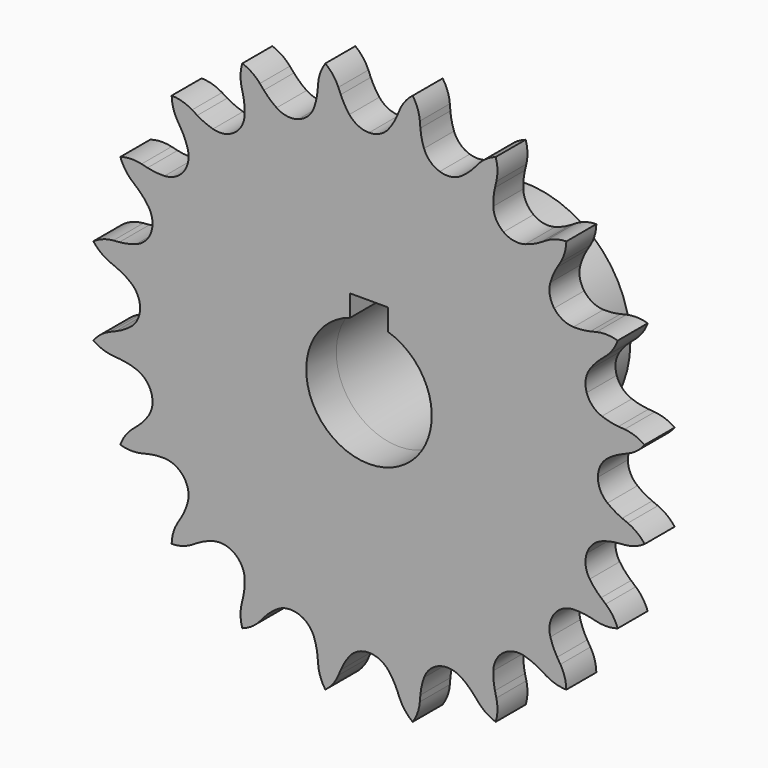
from build123d import *

# Parameters (mm, degrees)
F0_R     = 17
F0_R_2   = 10.05
F1_DEPTH = 25
F2_R     = 10.0377929829
F3_DEPTH = 6
F4_W     = 6
F4_H     = 6
F5_DEPTH = 38
F6_R     = 1.5
F7_DEPTH = 48.8


with BuildPart() as f1:
    # F0 (on Front) → F1 (new body)
    with BuildSketch(Plane.XZ):
        Circle(F0_R)
        Circle(F0_R_2, mode=Mode.SUBTRACT)
    extrude(amount=-F1_DEPTH)

    # F2 (on Front) → F3 (join)
    with BuildSketch(Plane.XZ):
        with BuildLine():
            ThreePointArc((-3.1373072133, 38.1409669683), (-3.905991045, 39.2720508786), (-4.5183293295, 40.4948621767))
            Line((-4.5183293295, 40.4948621767), (-4.8992933737, 41.4011398251))
            ThreePointArc((-4.8992933737, 41.4011398251), (-5.7641563546, 42.881091404), (-6.982649138, 44.0867115716))
            ThreePointArc((-6.982649138, 44.0867115716), (-7.7689475192, 42.5635636774), (-8.1341509042, 40.8887887256))
            Line((-8.1341509042, 40.8887887256), (-8.2164140459, 39.9091430987))
            ThreePointArc((-8.2164140459, 39.9091430987), (-8.4209128895, 38.5569575092), (-8.8024505062, 37.2436964185))
            ThreePointArc((-8.8024505062, 37.2436964185), (-9.7780053671, 35.741473668), (-11.3133593777, 34.8189399068))
            ThreePointArc((-11.3133593777, 34.8189399068), (-13.0977386042, 34.662826953), (-14.769963444, 35.3047339275))
            ThreePointArc((-14.769963444, 35.3047339275), (-15.8505493614, 36.1429222836), (-16.8107871491, 37.1166620007))
            Line((-16.8107871491, 37.1166620007), (-17.4531606807, 37.8608588998))
            ThreePointArc((-17.4531606807, 37.8608588998), (-18.7330244432, 39.0011191338), (-20.2644370654, 39.7711970728))
            ThreePointArc((-20.2644370654, 39.7711970728), (-20.5415726804, 38.0796177803), (-20.3713678176, 36.3739580967))
            Line((-20.3713678176, 36.3739580967), (-20.1468775673, 35.4168390307))
            ThreePointArc((-20.1468775673, 35.4168390307), (-19.9235191984, 34.0676404966), (-19.88056304, 32.7007533711))
            ThreePointArc((-19.88056304, 32.7007533711), (-20.3441584881, 30.9705916044), (-21.5192883146, 29.6187593777))
            ThreePointArc((-21.5192883146, 29.6187593777), (-23.1680922498, 28.9188836303), (-24.9568327443, 29.0126275473))
            ThreePointArc((-24.9568327443, 29.0126275473), (-26.2435454691, 29.4758726329), (-27.4576879949, 30.105224341))
            Line((-27.4576879949, 30.105224341), (-28.298591017, 30.6144933133))
            ThreePointArc((-28.298591017, 30.6144933133), (-29.8681735786, 31.303445586), (-31.5626007023, 31.5626007023))
            ThreePointArc((-31.5626007023, 31.5626007023), (-31.303445586, 29.8681735786), (-30.6144933133, 28.298591017))
            Line((-30.6144933133, 28.298591017), (-30.105224341, 27.4576879949))
            ThreePointArc((-30.105224341, 27.4576879949), (-29.4758726329, 26.2435454691), (-29.0126275473, 24.9568327443))
            ThreePointArc((-29.0126275473, 24.9568327443), (-28.9188836303, 23.1680922498), (-29.6187593777, 21.5192883146))
            ThreePointArc((-29.6187593777, 21.5192883146), (-30.9705916044, 20.3441584881), (-32.7007533711, 19.88056304))
            ThreePointArc((-32.7007533711, 19.88056304), (-34.0676404966, 19.9235191984), (-35.4168390307, 20.1468775673))
            Line((-35.4168390307, 20.1468775673), (-36.3739580967, 20.3713678176))
            ThreePointArc((-36.3739580967, 20.3713678176), (-38.0796177803, 20.5415726804), (-39.7711970728, 20.2644370654))
            ThreePointArc((-39.7711970728, 20.2644370654), (-39.0011191338, 18.7330244432), (-37.8608588998, 17.4531606807))
            Line((-37.8608588998, 17.4531606807), (-37.1166620007, 16.8107871491))
            ThreePointArc((-37.1166620007, 16.8107871491), (-36.1429222836, 15.8505493614), (-35.3047339275, 14.769963444))
            ThreePointArc((-35.3047339275, 14.769963444), (-34.662826953, 13.0977386042), (-34.8189399068, 11.3133593777))
            ThreePointArc((-34.8189399068, 11.3133593777), (-35.741473668, 9.7780053671), (-37.2436964185, 8.8024505062))
            ThreePointArc((-37.2436964185, 8.8024505062), (-38.5569575092, 8.4209128895), (-39.9091430987, 8.2164140459))
            Line((-39.9091430987, 8.2164140459), (-40.8887887256, 8.1341509042))
            ThreePointArc((-40.8887887256, 8.1341509042), (-42.5635636774, 7.7689475192), (-44.0867115716, 6.982649138))
            ThreePointArc((-44.0867115716, 6.982649138), (-42.881091404, 5.7641563546), (-41.4011398251, 4.8992933737))
            Line((-41.4011398251, 4.8992933737), (-40.4948621767, 4.5183293295))
            ThreePointArc((-40.4948621767, 4.5183293295), (-39.2720508786, 3.905991045), (-38.1409669683, 3.1373072133))
            ThreePointArc((-38.1409669683, 3.1373072133), (-37.0137312635, 1.7452870467), (-36.6108, 0))
            ThreePointArc((-36.6108, 0), (-37.0137312635, -1.7452870467), (-38.1409669683, -3.1373072133))
            ThreePointArc((-38.1409669683, -3.1373072133), (-39.2720508786, -3.905991045), (-40.4948621767, -4.5183293295))
            Line((-40.4948621767, -4.5183293295), (-41.4011398251, -4.8992933737))
            ThreePointArc((-41.4011398251, -4.8992933737), (-42.881091404, -5.7641563546), (-44.0867115716, -6.982649138))
            ThreePointArc((-44.0867115716, -6.982649138), (-42.5635636774, -7.7689475192), (-40.8887887256, -8.1341509042))
            Line((-40.8887887256, -8.1341509042), (-39.9091430987, -8.2164140459))
            ThreePointArc((-39.9091430987, -8.2164140459), (-38.5569575092, -8.4209128895), (-37.2436964185, -8.8024505062))
            ThreePointArc((-37.2436964185, -8.8024505062), (-35.741473668, -9.7780053671), (-34.8189399068, -11.3133593777))
            ThreePointArc((-34.8189399068, -11.3133593777), (-34.662826953, -13.0977386042), (-35.3047339275, -14.769963444))
            ThreePointArc((-35.3047339275, -14.769963444), (-36.1429222836, -15.8505493614), (-37.1166620007, -16.8107871491))
            Line((-37.1166620007, -16.8107871491), (-37.8608588998, -17.4531606807))
            ThreePointArc((-37.8608588998, -17.4531606807), (-39.0011191338, -18.7330244432), (-39.7711970728, -20.2644370654))
            ThreePointArc((-39.7711970728, -20.2644370654), (-38.0796177803, -20.5415726804), (-36.3739580967, -20.3713678176))
            Line((-36.3739580967, -20.3713678176), (-35.4168390307, -20.1468775673))
            ThreePointArc((-35.4168390307, -20.1468775673), (-34.0676404966, -19.9235191984), (-32.7007533711, -19.88056304))
            ThreePointArc((-32.7007533711, -19.88056304), (-30.9705916044, -20.3441584881), (-29.6187593777, -21.5192883146))
            ThreePointArc((-29.6187593777, -21.5192883146), (-28.9188836303, -23.1680922498), (-29.0126275473, -24.9568327443))
            ThreePointArc((-29.0126275473, -24.9568327443), (-29.4758726329, -26.2435454691), (-30.105224341, -27.4576879949))
            Line((-30.105224341, -27.4576879949), (-30.6144933133, -28.298591017))
            ThreePointArc((-30.6144933133, -28.298591017), (-31.303445586, -29.8681735786), (-31.5626007023, -31.5626007023))
            ThreePointArc((-31.5626007023, -31.5626007023), (-29.8681735786, -31.303445586), (-28.298591017, -30.6144933133))
            Line((-28.298591017, -30.6144933133), (-27.4576879949, -30.105224341))
            ThreePointArc((-27.4576879949, -30.105224341), (-26.2435454691, -29.4758726329), (-24.9568327443, -29.0126275473))
            ThreePointArc((-24.9568327443, -29.0126275473), (-23.1680922498, -28.9188836303), (-21.5192883146, -29.6187593777))
            ThreePointArc((-21.5192883146, -29.6187593777), (-20.3441584881, -30.9705916044), (-19.88056304, -32.7007533711))
            ThreePointArc((-19.88056304, -32.7007533711), (-19.9235191984, -34.0676404966), (-20.1468775673, -35.4168390307))
            Line((-20.1468775673, -35.4168390307), (-20.3713678176, -36.3739580967))
            ThreePointArc((-20.3713678176, -36.3739580967), (-20.5415726804, -38.0796177803), (-20.2644370654, -39.7711970728))
            ThreePointArc((-20.2644370654, -39.7711970728), (-18.7330244432, -39.0011191338), (-17.4531606807, -37.8608588998))
            Line((-17.4531606807, -37.8608588998), (-16.8107871491, -37.1166620007))
            ThreePointArc((-16.8107871491, -37.1166620007), (-15.8505493614, -36.1429222836), (-14.769963444, -35.3047339275))
            ThreePointArc((-14.769963444, -35.3047339275), (-13.0977386042, -34.662826953), (-11.3133593777, -34.8189399068))
            ThreePointArc((-11.3133593777, -34.8189399068), (-9.7780053671, -35.741473668), (-8.8024505062, -37.2436964185))
            ThreePointArc((-8.8024505062, -37.2436964185), (-8.4209128895, -38.5569575092), (-8.2164140459, -39.9091430987))
            Line((-8.2164140459, -39.9091430987), (-8.1341509042, -40.8887887256))
            ThreePointArc((-8.1341509042, -40.8887887256), (-7.7689475192, -42.5635636774), (-6.982649138, -44.0867115716))
            ThreePointArc((-6.982649138, -44.0867115716), (-5.7641563546, -42.881091404), (-4.8992933737, -41.4011398251))
            Line((-4.8992933737, -41.4011398251), (-4.5183293295, -40.4948621767))
            ThreePointArc((-4.5183293295, -40.4948621767), (-3.905991045, -39.2720508786), (-3.1373072133, -38.1409669683))
            ThreePointArc((-3.1373072133, -38.1409669683), (-1.7452870467, -37.0137312635), (0, -36.6108))
            ThreePointArc((0, -36.6108), (1.7452870467, -37.0137312635), (3.1373072133, -38.1409669683))
            ThreePointArc((3.1373072133, -38.1409669683), (3.905991045, -39.2720508786), (4.5183293295, -40.4948621767))
            Line((4.5183293295, -40.4948621767), (4.8992933737, -41.4011398251))
            ThreePointArc((4.8992933737, -41.4011398251), (5.7641563546, -42.881091404), (6.982649138, -44.0867115716))
            ThreePointArc((6.982649138, -44.0867115716), (7.7689475192, -42.5635636774), (8.1341509042, -40.8887887256))
            Line((8.1341509042, -40.8887887256), (8.2164140459, -39.9091430987))
            ThreePointArc((8.2164140459, -39.9091430987), (8.4209128895, -38.5569575092), (8.8024505062, -37.2436964185))
            ThreePointArc((8.8024505062, -37.2436964185), (9.7780053671, -35.741473668), (11.3133593777, -34.8189399068))
            ThreePointArc((11.3133593777, -34.8189399068), (13.0977386042, -34.662826953), (14.769963444, -35.3047339275))
            ThreePointArc((14.769963444, -35.3047339275), (15.8505493614, -36.1429222836), (16.8107871491, -37.1166620007))
            Line((16.8107871491, -37.1166620007), (17.4531606807, -37.8608588998))
            ThreePointArc((17.4531606807, -37.8608588998), (18.7330244432, -39.0011191338), (20.2644370654, -39.7711970728))
            ThreePointArc((20.2644370654, -39.7711970728), (20.5415726804, -38.0796177803), (20.3713678176, -36.3739580967))
            Line((20.3713678176, -36.3739580967), (20.1468775673, -35.4168390307))
            ThreePointArc((20.1468775673, -35.4168390307), (19.9235191984, -34.0676404966), (19.88056304, -32.7007533711))
            ThreePointArc((19.88056304, -32.7007533711), (20.3441584881, -30.9705916044), (21.5192883146, -29.6187593777))
            ThreePointArc((21.5192883146, -29.6187593777), (23.1680922498, -28.9188836303), (24.9568327443, -29.0126275473))
            ThreePointArc((24.9568327443, -29.0126275473), (26.2435454691, -29.4758726329), (27.4576879949, -30.105224341))
            Line((27.4576879949, -30.105224341), (28.298591017, -30.6144933133))
            ThreePointArc((28.298591017, -30.6144933133), (29.8681735786, -31.303445586), (31.5626007023, -31.5626007023))
            ThreePointArc((31.5626007023, -31.5626007023), (31.303445586, -29.8681735786), (30.6144933133, -28.298591017))
            Line((30.6144933133, -28.298591017), (30.105224341, -27.4576879949))
            ThreePointArc((30.105224341, -27.4576879949), (29.4758726329, -26.2435454691), (29.0126275473, -24.9568327443))
            ThreePointArc((29.0126275473, -24.9568327443), (28.9188836303, -23.1680922498), (29.6187593777, -21.5192883146))
            ThreePointArc((29.6187593777, -21.5192883146), (30.9705916044, -20.3441584881), (32.7007533711, -19.88056304))
            ThreePointArc((32.7007533711, -19.88056304), (34.0676404966, -19.9235191984), (35.4168390307, -20.1468775673))
            Line((35.4168390307, -20.1468775673), (36.3739580967, -20.3713678176))
            ThreePointArc((36.3739580967, -20.3713678176), (38.0796177803, -20.5415726804), (39.7711970728, -20.2644370654))
            ThreePointArc((39.7711970728, -20.2644370654), (39.0011191338, -18.7330244432), (37.8608588998, -17.4531606807))
            Line((37.8608588998, -17.4531606807), (37.1166620007, -16.8107871491))
            ThreePointArc((37.1166620007, -16.8107871491), (36.1429222836, -15.8505493614), (35.3047339275, -14.769963444))
            ThreePointArc((35.3047339275, -14.769963444), (34.662826953, -13.0977386042), (34.8189399068, -11.3133593777))
            ThreePointArc((34.8189399068, -11.3133593777), (35.741473668, -9.7780053671), (37.2436964185, -8.8024505062))
            ThreePointArc((37.2436964185, -8.8024505062), (38.5569575092, -8.4209128895), (39.9091430987, -8.2164140459))
            Line((39.9091430987, -8.2164140459), (40.8887887256, -8.1341509042))
            ThreePointArc((40.8887887256, -8.1341509042), (42.5635636774, -7.7689475192), (44.0867115716, -6.982649138))
            ThreePointArc((44.0867115716, -6.982649138), (42.881091404, -5.7641563546), (41.4011398251, -4.8992933737))
            Line((41.4011398251, -4.8992933737), (40.4948621767, -4.5183293295))
            ThreePointArc((40.4948621767, -4.5183293295), (39.2720508786, -3.905991045), (38.1409669683, -3.1373072133))
            ThreePointArc((38.1409669683, -3.1373072133), (37.0137312635, -1.7452870467), (36.6108, 0))
            ThreePointArc((36.6108, 0), (37.0137312635, 1.7452870467), (38.1409669683, 3.1373072133))
            ThreePointArc((38.1409669683, 3.1373072133), (39.2720508786, 3.905991045), (40.4948621767, 4.5183293295))
            Line((40.4948621767, 4.5183293295), (41.4011398251, 4.8992933737))
            ThreePointArc((41.4011398251, 4.8992933737), (42.881091404, 5.7641563546), (44.0867115716, 6.982649138))
            ThreePointArc((44.0867115716, 6.982649138), (42.5635636774, 7.7689475192), (40.8887887256, 8.1341509042))
            Line((40.8887887256, 8.1341509042), (39.9091430987, 8.2164140459))
            ThreePointArc((39.9091430987, 8.2164140459), (38.5569575092, 8.4209128895), (37.2436964185, 8.8024505062))
            ThreePointArc((37.2436964185, 8.8024505062), (35.741473668, 9.7780053671), (34.8189399068, 11.3133593777))
            ThreePointArc((34.8189399068, 11.3133593777), (34.662826953, 13.0977386042), (35.3047339275, 14.769963444))
            ThreePointArc((35.3047339275, 14.769963444), (36.1429222836, 15.8505493614), (37.1166620007, 16.8107871491))
            Line((37.1166620007, 16.8107871491), (37.8608588998, 17.4531606807))
            ThreePointArc((37.8608588998, 17.4531606807), (39.0011191338, 18.7330244432), (39.7711970728, 20.2644370654))
            ThreePointArc((39.7711970728, 20.2644370654), (38.0796177803, 20.5415726804), (36.3739580967, 20.3713678176))
            Line((36.3739580967, 20.3713678176), (35.4168390307, 20.1468775673))
            ThreePointArc((35.4168390307, 20.1468775673), (34.0676404966, 19.9235191984), (32.7007533711, 19.88056304))
            ThreePointArc((32.7007533711, 19.88056304), (30.9705916044, 20.3441584881), (29.6187593777, 21.5192883146))
            ThreePointArc((29.6187593777, 21.5192883146), (28.9188836303, 23.1680922498), (29.0126275473, 24.9568327443))
            ThreePointArc((29.0126275473, 24.9568327443), (29.4758726329, 26.2435454691), (30.105224341, 27.4576879949))
            Line((30.105224341, 27.4576879949), (30.6144933133, 28.298591017))
            ThreePointArc((30.6144933133, 28.298591017), (31.303445586, 29.8681735786), (31.5626007023, 31.5626007023))
            ThreePointArc((31.5626007023, 31.5626007023), (29.8681735786, 31.303445586), (28.298591017, 30.6144933133))
            Line((28.298591017, 30.6144933133), (27.4576879949, 30.105224341))
            ThreePointArc((27.4576879949, 30.105224341), (26.2435454691, 29.4758726329), (24.9568327443, 29.0126275473))
            ThreePointArc((24.9568327443, 29.0126275473), (23.1680922498, 28.9188836303), (21.5192883146, 29.6187593777))
            ThreePointArc((21.5192883146, 29.6187593777), (20.3441584881, 30.9705916044), (19.88056304, 32.7007533711))
            ThreePointArc((19.88056304, 32.7007533711), (19.9235191984, 34.0676404966), (20.1468775673, 35.4168390307))
            Line((20.1468775673, 35.4168390307), (20.3713678176, 36.3739580967))
            ThreePointArc((20.3713678176, 36.3739580967), (20.5415726804, 38.0796177803), (20.2644370654, 39.7711970728))
            ThreePointArc((20.2644370654, 39.7711970728), (18.7330244432, 39.0011191338), (17.4531606807, 37.8608588998))
            Line((17.4531606807, 37.8608588998), (16.8107871491, 37.1166620007))
            ThreePointArc((16.8107871491, 37.1166620007), (15.8505493614, 36.1429222836), (14.769963444, 35.3047339275))
            ThreePointArc((14.769963444, 35.3047339275), (13.0977386042, 34.662826953), (11.3133593777, 34.8189399068))
            ThreePointArc((11.3133593777, 34.8189399068), (9.7780053671, 35.741473668), (8.8024505062, 37.2436964185))
            ThreePointArc((8.8024505062, 37.2436964185), (8.4209128895, 38.5569575092), (8.2164140459, 39.9091430987))
            Line((8.2164140459, 39.9091430987), (8.1341509042, 40.8887887256))
            ThreePointArc((8.1341509042, 40.8887887256), (7.7689475192, 42.5635636774), (6.982649138, 44.0867115716))
            ThreePointArc((6.982649138, 44.0867115716), (5.7641563546, 42.881091404), (4.8992933737, 41.4011398251))
            Line((4.8992933737, 41.4011398251), (4.5183293295, 40.4948621767))
            ThreePointArc((4.5183293295, 40.4948621767), (3.905991045, 39.2720508786), (3.1373072133, 38.1409669683))
            ThreePointArc((3.1373072133, 38.1409669683), (1.7452870467, 37.0137312635), (0, 36.6108))
            ThreePointArc((0, 36.6108), (-1.7452870467, 37.0137312635), (-3.1373072133, 38.1409669683))
        make_face()
        Circle(F2_R, mode=Mode.SUBTRACT)
    extrude(amount=F3_DEPTH)

    # F4 (on Front) → F5 (cut, symmetric)
    with BuildSketch(Plane.XZ):
        with Locations((0, 10)):
            Rectangle(F4_W, F4_H)
    extrude(amount=F5_DEPTH, both=True, mode=Mode.SUBTRACT)

    # F6 (on Top) → F7 (cut)
    with BuildSketch(Plane.XY):
        with Locations((0, 17)):
            Circle(F6_R)
    extrude(amount=F7_DEPTH, mode=Mode.SUBTRACT)


solid = f1.part
